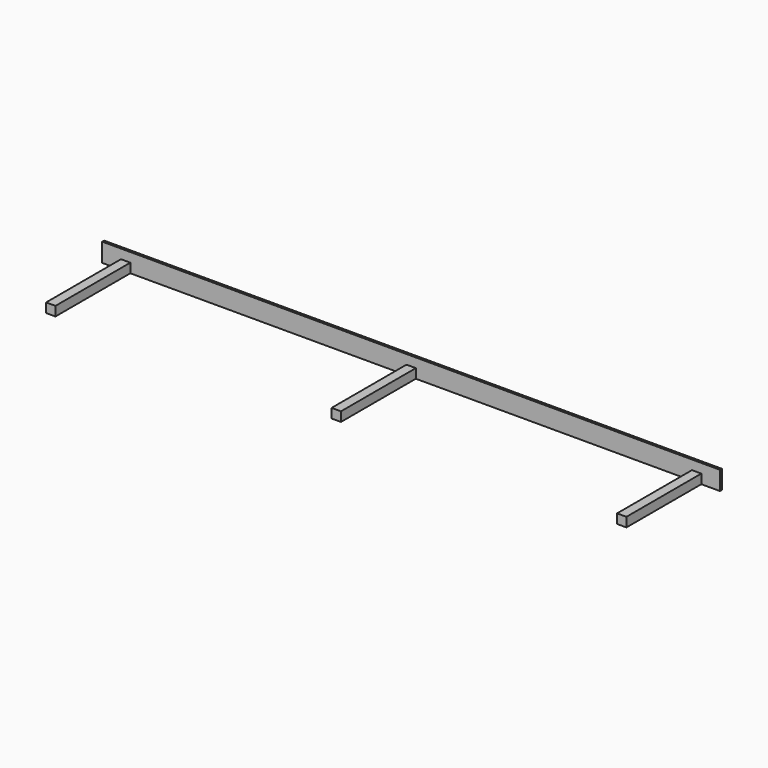
from build123d import *

# Parameters (mm, degrees)
F0_W     = 1676.4
F0_H     = 50.8
F1_DEPTH = 6.35
F2_W     = 25.4
F2_H     = 25.4
F3_DEPTH = 254


with BuildPart() as f1:
    # F0 (on Front) → F1 (new body)
    with BuildSketch(Plane.XZ):
        Rectangle(F0_W, F0_H)
    extrude(amount=F1_DEPTH)

    # F2 (on face) → F3 (join)
    with BuildSketch(Plane.XZ.offset(6.35)):
        with Locations((-774.7, -12.7)):
            Rectangle(F2_W, F2_H)
        with Locations((774.7, -12.7)):
            Rectangle(F2_W, F2_H)
        Polygon((-12.7, 0), (-12.7, -25.4), (0, -25.4), (12.7, -25.4), (12.7, 0), (0, 0), align=None)
    extrude(amount=F3_DEPTH)


solid = f1.part
